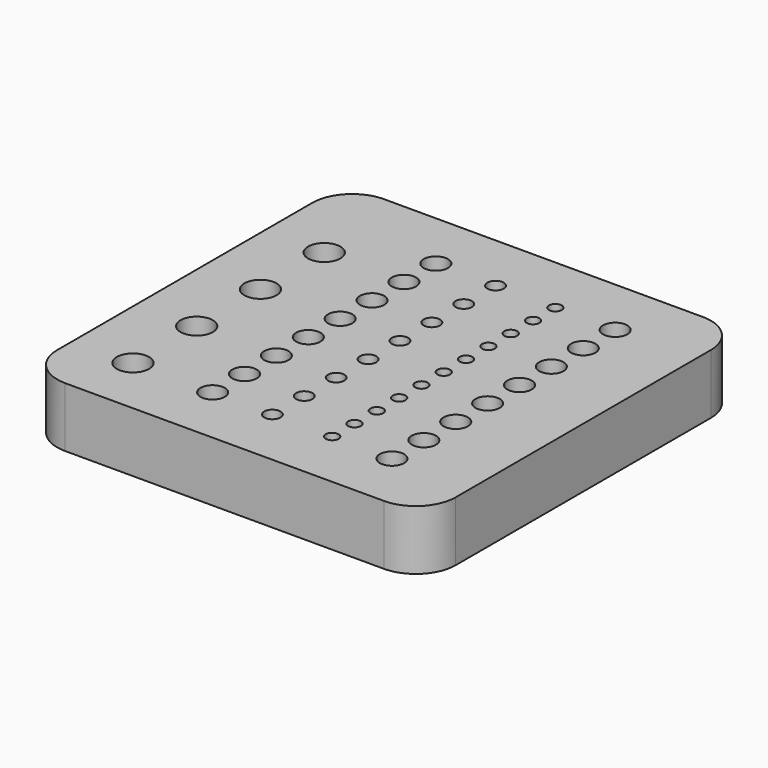
from build123d import *

# Parameters (mm, degrees)
SKETCH_W      = 100
SKETCH_H      = 100
PAD_DEPTH     = 15
FILLET_R      = 10
FILLET001_R   = 10
FILLET002_R   = 10
FILLET003_R   = 10
SKETCH001_R   = 4.05
SKETCH001_R_2 = 3.05
SKETCH001_R_3 = 2.05
SKETCH001_R_4 = 1.6
POCKET_DEPTH  = 6


with BuildPart() as part:
    # Sketch → Pad (new body)
    with BuildSketch(Plane.XY):
        with Locations((50, 50)):
            Rectangle(SKETCH_W, SKETCH_H)
    extrude(amount=PAD_DEPTH)

    # Fillet
    fillet_edges = [part.edges().sort_by_distance(p)[0] for p in [
        (0, 0, 7.5),
    ]]
    fillet(fillet_edges, radius=FILLET_R)

    # Fillet001
    fillet001_edges = [part.edges().sort_by_distance(p)[0] for p in [
        (100, 0, 7.5),
    ]]
    fillet(fillet001_edges, radius=FILLET001_R)

    # Fillet002
    fillet002_edges = [part.edges().sort_by_distance(p)[0] for p in [
        (100, 100, 7.5),
    ]]
    fillet(fillet002_edges, radius=FILLET002_R)

    # Fillet003
    fillet003_edges = [part.edges().sort_by_distance(p)[0] for p in [
        (0, 100, 7.5),
    ]]
    fillet(fillet003_edges, radius=FILLET003_R)

    # Sketch001 (on Face6 of Pad) → Pocket (cut)
    with BuildSketch(Plane.XY.offset(15)):
        with Locations((15, 15)):
            Circle(SKETCH001_R)
        with Locations((15, 35)):
            Circle(SKETCH001_R)
        with Locations((15, 55)):
            Circle(SKETCH001_R)
        with Locations((15, 75)):
            Circle(SKETCH001_R)
        with Locations((35, 15)):
            Circle(SKETCH001_R_2)
        with Locations((35, 25)):
            Circle(SKETCH001_R_2)
        with Locations((35, 35)):
            Circle(SKETCH001_R_2)
        with Locations((35, 45)):
            Circle(SKETCH001_R_2)
        with Locations((35, 55)):
            Circle(SKETCH001_R_2)
        with Locations((35, 65)):
            Circle(SKETCH001_R_2)
        with Locations((35, 75)):
            Circle(SKETCH001_R_2)
        with Locations((35, 85)):
            Circle(SKETCH001_R_2)
        with Locations((50, 15)):
            Circle(SKETCH001_R_3)
        with Locations((50, 25)):
            Circle(SKETCH001_R_3)
        with Locations((50, 35)):
            Circle(SKETCH001_R_3)
        with Locations((50, 45)):
            Circle(SKETCH001_R_3)
        with Locations((50, 55)):
            Circle(SKETCH001_R_3)
        with Locations((50, 65)):
            Circle(SKETCH001_R_3)
        with Locations((50, 75)):
            Circle(SKETCH001_R_3)
        with Locations((50, 85)):
            Circle(SKETCH001_R_3)
        with Locations((65, 15)):
            Circle(SKETCH001_R_4)
        with Locations((65, 22)):
            Circle(SKETCH001_R_4)
        with Locations((65, 29)):
            Circle(SKETCH001_R_4)
        with Locations((65, 36)):
            Circle(SKETCH001_R_4)
        with Locations((65, 43)):
            Circle(SKETCH001_R_4)
        with Locations((65, 50)):
            Circle(SKETCH001_R_4)
        with Locations((65, 57)):
            Circle(SKETCH001_R_4)
        with Locations((65, 64)):
            Circle(SKETCH001_R_4)
        with Locations((65, 71)):
            Circle(SKETCH001_R_4)
        with Locations((65, 78)):
            Circle(SKETCH001_R_4)
        with Locations((65, 85)):
            Circle(SKETCH001_R_4)
        with Locations((80, 15)):
            Circle(SKETCH001_R_2)
        with Locations((80, 25)):
            Circle(SKETCH001_R_2)
        with Locations((80, 35)):
            Circle(SKETCH001_R_2)
        with Locations((80, 45)):
            Circle(SKETCH001_R_2)
        with Locations((80, 55)):
            Circle(SKETCH001_R_2)
        with Locations((80, 65)):
            Circle(SKETCH001_R_2)
        with Locations((80, 75)):
            Circle(SKETCH001_R_2)
        with Locations((80, 85)):
            Circle(SKETCH001_R_2)
    extrude(amount=-POCKET_DEPTH, mode=Mode.SUBTRACT)


with BuildPart() as part_1:
    # Clone placement: moved
    add(part.part.moved(Location((0, 0, -15))))


solid = part_1.part
